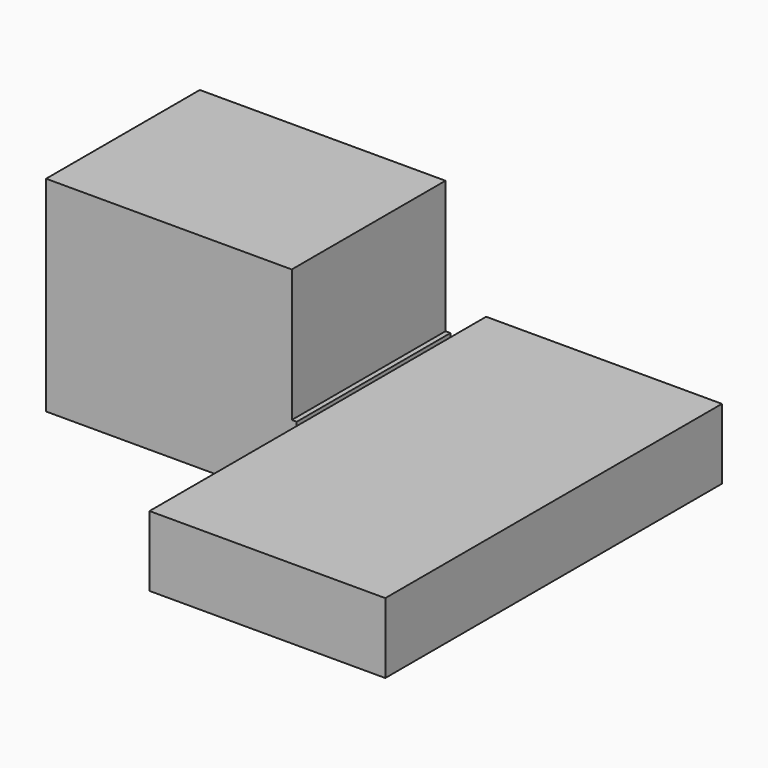
from build123d import *

# Parameters (mm, degrees)
F0_W      = 98.518692
F0_H      = 30.31344
F1_DEPTH  = 101.6
F2_W      = 2.131616
F2_H      = 31.223707
F1_FACE_W = 101.6
F1_FACE_H = 30.31344
F3_DEPTH  = 82.804


with BuildPart() as f1:
    # F0 (on Right) → F1 (new body)
    with BuildSketch(Plane.YZ):
        with Locations((-30.021969, 6.558196)):
            Rectangle(F0_W, F0_H)
    extrude(amount=F1_DEPTH)

    # F2 (on Front) + F1_face (on face) → F3 (join)
    with BuildSketch(Plane.XZ):
        Polygon((-107.994854, -7.880269), (-2.131616, -7.880269), (-2.131616, 23.343438), (-2.131616, 80.438212), (-107.994854, 80.438212), align=None)
        with Locations((-1.065808, 7.731585)):
            Rectangle(F2_W, F2_H)
    with BuildSketch(Plane(origin=(50.8, -79.281315, 6.558196), x_dir=(1, 0, 0), z_dir=(0, -1, 0))):
        Rectangle(F1_FACE_W, F1_FACE_H)
    extrude(amount=F3_DEPTH)


solid = f1.part
